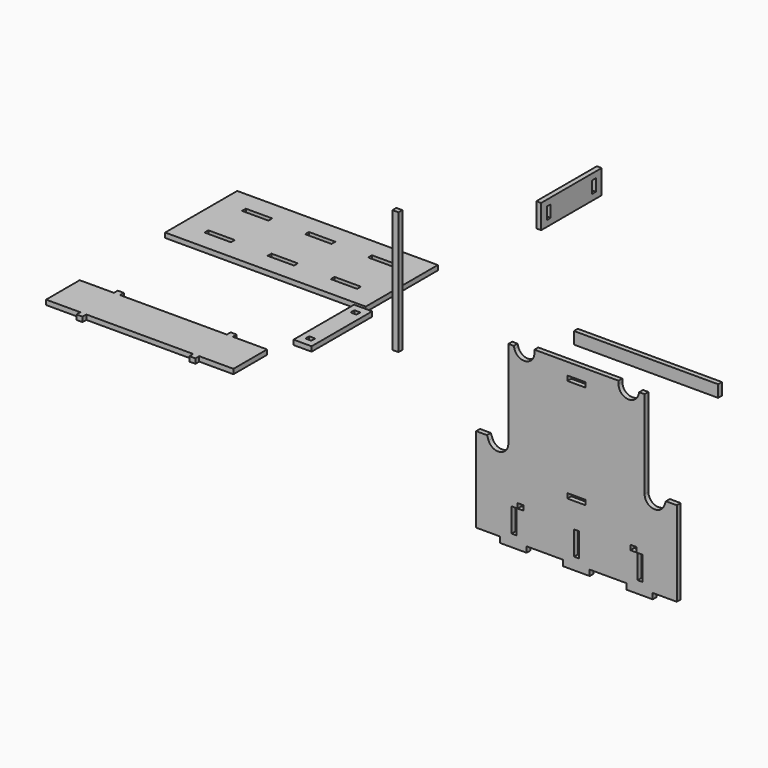
from build123d import *

# Parameters (mm, degrees)
F0_W      = 8
F0_H      = 40
F0_W_2    = 10
F0_H_2    = 8
F0_W_3    = 30
F1_DEPTH  = 8
F2_W      = 30
F2_H      = 126
F2_W_2    = 10
F2_H_2    = 8
F3_DEPTH  = 8
F4_W      = 126
F4_H      = 40
F4_W_2    = 8
F4_H_2    = 20
F5_DEPTH  = 8
F6_W      = 8
F6_H      = 20
F7_DEPTH  = 240
F8_W      = 10
F8_H      = 8
F9_DEPTH  = 205
F11_DEPTH = 8
F12_W     = 334
F12_H     = 75
F12_W_2   = 44
F12_H_2   = 8
F13_DEPTH = 8


with BuildPart() as f1:
    # F0 (on Front) → F1 (new body)
    with BuildSketch(Plane.XZ):
        with BuildLine():
            Line((168.754732, -220.425971), (190.754732, -220.425971))
            Line((190.754732, -220.425971), (212.754732, -220.425971))
            Line((212.754732, -220.425971), (212.754732, -210.925971))
            Line((212.754732, -210.925971), (273.754732, -210.925971))
            Line((273.754732, -210.925971), (273.754732, -220.425971))
            Line((273.754732, -220.425971), (317.754732, -220.425971))
            Line((317.754732, -220.425971), (317.754732, -210.925971))
            Line((317.754732, -210.925971), (357.754732, -210.925971))
            Line((357.754732, -210.925971), (357.754732, -69.414692))
            Line((357.754732, -69.414692), (339.754732, -69.414692))
            Line((339.754732, -69.414692), (337.070861, -76.470164))
            ThreePointArc((337.070861, -76.470164), (318.108923, -87.145974), (304.181628, -70.425971))
            Line((304.181628, -70.425971), (304.181628, 75.950258))
            Line((304.181628, 75.950258), (295.181628, 75.950258))
            Line((295.181628, 75.950258), (294.181628, 72.19715))
            ThreePointArc((294.181628, 72.19715), (275.547612, 59.717914), (260.754732, 76.574029))
            Line((260.754732, 76.574029), (260.754732, 81.574029))
            Line((260.754732, 81.574029), (190.754732, 81.574029))
            Line((190.754732, 81.574029), (120.754732, 81.574029))
            Line((120.754732, 81.574029), (120.754732, 76.574029))
            ThreePointArc((120.754732, 76.574029), (105.961852, 59.717914), (87.327835, 72.19715))
            Line((87.327835, 72.19715), (86.327835, 75.950258))
            Line((86.327835, 75.950258), (77.327835, 75.950258))
            Line((77.327835, 75.950258), (77.327835, -70.425971))
            ThreePointArc((77.327835, -70.425971), (63.40054, -87.145974), (44.438602, -76.470164))
            Line((44.438602, -76.470164), (41.754732, -69.414692))
            Line((41.754732, -69.414692), (23.754732, -69.414692))
            Line((23.754732, -69.414692), (23.754732, -210.925971))
            Line((23.754732, -210.925971), (63.754732, -210.925971))
            Line((63.754732, -210.925971), (63.754732, -220.425971))
            Line((63.754732, -220.425971), (107.754732, -220.425971))
            Line((107.754732, -220.425971), (107.754732, -210.925971))
            Line((107.754732, -210.925971), (168.754732, -210.925971))
            Line((168.754732, -210.925971), (168.754732, -220.425971))
        make_face()
        with Locations((86.754732, -180.425971)):
            Rectangle(F0_W, F0_H, mode=Mode.SUBTRACT)
        with Locations((97.754732, -156.425971)):
            Rectangle(F0_W_2, F0_H_2, mode=Mode.SUBTRACT)
        with Locations((190.754732, -114.820627)):
            Rectangle(F0_W_3, F0_H_2, mode=Mode.SUBTRACT)
        with Locations((190.754732, -180.425971)):
            Rectangle(F0_W, F0_H, mode=Mode.SUBTRACT)
        with Locations((296.754732, -180.425971)):
            Rectangle(F0_W, F0_H, mode=Mode.SUBTRACT)
        with Locations((285.754732, -156.425971)):
            Rectangle(F0_W_2, F0_H_2, mode=Mode.SUBTRACT)
        with Locations((190.754732, 57.574029)):
            Rectangle(F0_W_3, F0_H_2, mode=Mode.SUBTRACT)
    extrude(amount=F1_DEPTH)


with BuildPart() as f3:
    # F2 (on Top) → F3 (new body)
    with BuildSketch(Plane.XY):
        with Locations((-214.722842, -8.219968)):
            Rectangle(F2_W, F2_H)
        with Locations((-214.722842, -55.219968)):
            Rectangle(F2_W_2, F2_H_2, mode=Mode.SUBTRACT)
        with Locations((-214.722842, 38.780032)):
            Rectangle(F2_W_2, F2_H_2, mode=Mode.SUBTRACT)
    extrude(amount=F3_DEPTH)


with BuildPart() as f5:
    # F4 (on Right) → F5 (new body)
    with BuildSketch(Plane.YZ):
        with Locations((209.892505, 176.993862)):
            Rectangle(F4_W, F4_H)
        with Locations((256.892505, 176.993862)):
            Rectangle(F4_W_2, F4_H_2, mode=Mode.SUBTRACT)
        with Locations((162.892505, 176.993862)):
            Rectangle(F4_W_2, F4_H_2, mode=Mode.SUBTRACT)
    extrude(amount=F5_DEPTH)


with BuildPart() as f7:
    # F6 (on Right) → F7 (new body)
    with BuildSketch(Plane.YZ):
        with Locations((229.199918, -35.127133)):
            Rectangle(F6_W, F6_H)
    extrude(amount=F7_DEPTH)


with BuildPart() as f9:
    # F8 (on Top) → F9 (new body)
    with BuildSketch(Plane.XY):
        with Locations((-115.77574, 2.373506)):
            Rectangle(F8_W, F8_H)
    extrude(amount=F9_DEPTH)


with BuildPart() as f11:
    # F10 (on Top) → F11 (new body)
    with BuildSketch(Plane.XY):
        Polygon((-494.388868, -114.241416), (-551.388868, -114.241416), (-551.388868, -184.241416), (-494.388868, -184.241416), (-494.388868, -192.241416), (-484.388868, -192.241416), (-484.388868, -184.241416), (-395.388868, -184.241416), (-395.388868, -114.241416), (-484.388868, -114.241416), (-484.388868, -106.241416), (-494.388868, -106.241416), align=None)
        Polygon((-306.388868, -114.241416), (-395.388868, -114.241416), (-395.388868, -184.241416), (-306.388868, -184.241416), (-306.388868, -192.241416), (-296.388868, -192.241416), (-296.388868, -184.241416), (-239.388868, -184.241416), (-239.388868, -114.241416), (-296.388868, -114.241416), (-296.388868, -106.241416), (-306.388868, -106.241416), align=None)
    extrude(amount=F11_DEPTH)


with BuildPart() as f13:
    # F12 (on Top) → F13 (new body)
    with BuildSketch(Plane.XY):
        with Locations((-381.521738, 172.483955)):
            Rectangle(F12_W, F12_H)
        with Locations((-486.521738, 173.983955)):
            Rectangle(F12_W_2, F12_H_2, mode=Mode.SUBTRACT)
        with Locations((-381.521738, 173.983955)):
            Rectangle(F12_W_2, F12_H_2, mode=Mode.SUBTRACT)
        with Locations((-276.521738, 173.983955)):
            Rectangle(F12_W_2, F12_H_2, mode=Mode.SUBTRACT)
        with Locations((-381.521738, 97.483955)):
            Rectangle(F12_W, F12_H)
        with Locations((-486.521738, 95.983955)):
            Rectangle(F12_W_2, F12_H_2, mode=Mode.SUBTRACT)
        with Locations((-381.521738, 95.983955)):
            Rectangle(F12_W_2, F12_H_2, mode=Mode.SUBTRACT)
        with Locations((-276.521738, 95.983955)):
            Rectangle(F12_W_2, F12_H_2, mode=Mode.SUBTRACT)
    extrude(amount=F13_DEPTH)


solid = Compound([f1.part, f3.part, f5.part, f7.part, f9.part, f11.part, f13.part])
